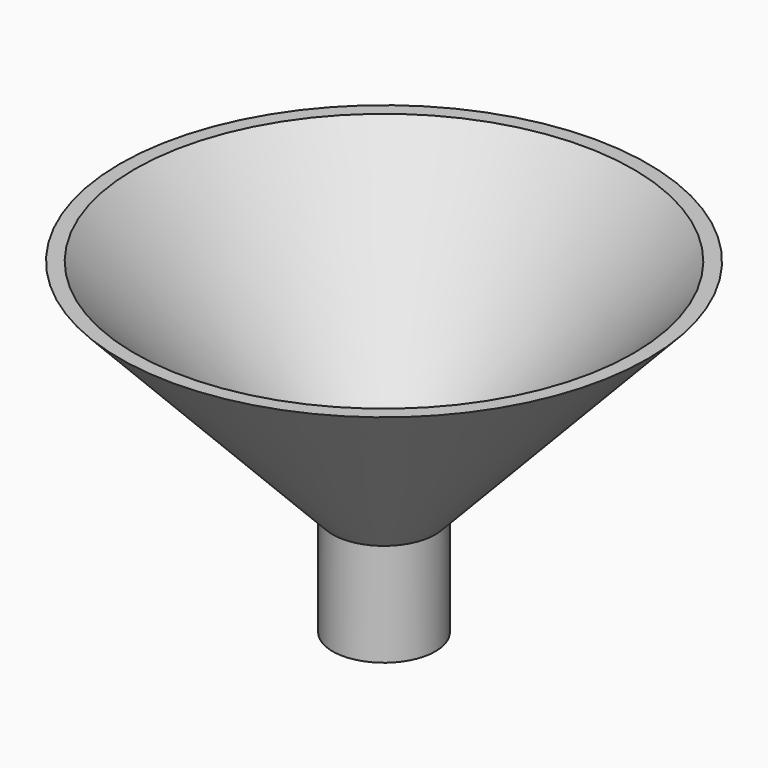
from build123d import *

# Parameters (mm, degrees)
F2_R     = 9.851834
F3_DEPTH = 50.8


with BuildPart() as f1:
    # F0 (on Front) → F1 (revolve)
    with BuildSketch(Plane.XZ):
        Polygon((6.696056, 13.130854), (59.164097, 68.389742), (55.557297, 68.389742), (3.089256, 13.130854), (-6.003944, 13.130854), (-6.003944, -12.269146), (6.696056, -12.269146), align=None)
        Polygon((6.696056, 13.130854), (59.164097, 68.389742), (55.557297, 68.389742), (3.089256, 13.130854), (-6.003944, 13.130854), (-6.003944, -12.269146), (6.696056, -12.269146), align=None)
    revolve(axis=Axis((-6.003944, 0, 0.430854), (0, 0, 1)))

    # F2 (on face) → F3 (cut)
    with BuildSketch(Plane(origin=(0, 0, -12.269146), x_dir=(1, 0, 0), z_dir=(0, 0, -1))):
        with Locations((-6.003944, 0)):
            Circle(F2_R)
    extrude(amount=-F3_DEPTH, mode=Mode.SUBTRACT)


solid = f1.part
